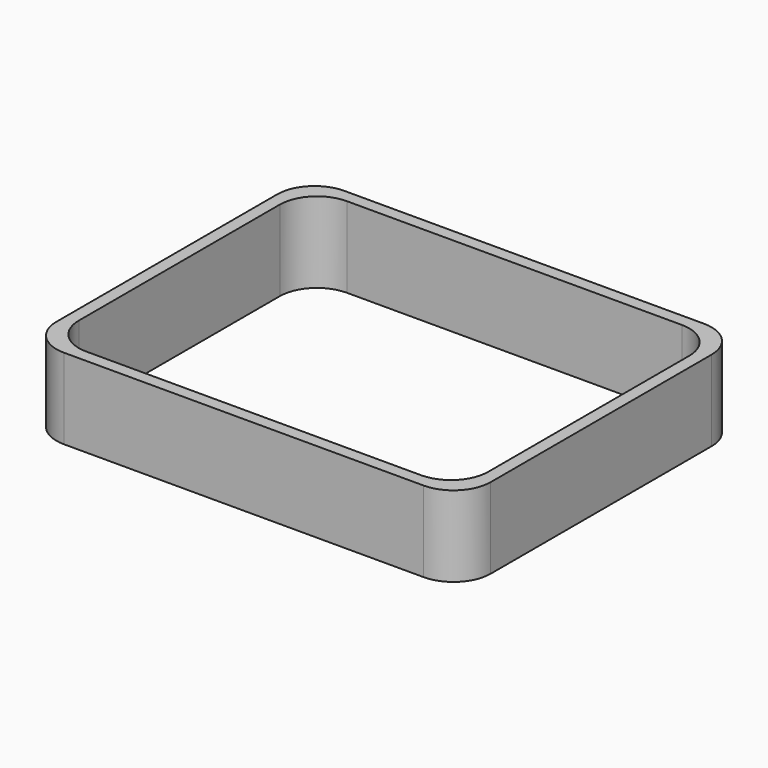
from build123d import *

# Parameters (mm, degrees)
CYLINDER086_R          = 12
CYLINDER086_DEPTH      = 26
BOX065_W               = 12
BOX065_H               = 12
BOX065_DEPTH           = 26
CYLINDER087_R          = 12
CYLINDER087_DEPTH      = 26
BOX066_W               = 12
BOX066_H               = 12
BOX066_DEPTH           = 26
CUT039_PLACEMENT_ANGLE = 90
CYLINDER088_R          = 12
CYLINDER088_DEPTH      = 26
BOX067_W               = 12
BOX067_H               = 12
BOX067_DEPTH           = 26
CUT040_PLACEMENT_ANGLE = 180
CYLINDER089_R          = 12
CYLINDER089_DEPTH      = 26
BOX068_W               = 12
BOX068_H               = 12
BOX068_DEPTH           = 26
CUT041_PLACEMENT_ANGLE = 90
BOX064_W               = 132
BOX064_H               = 105
BOX064_DEPTH           = 26
CYLINDER082_R          = 12
CYLINDER082_DEPTH      = 26
BOX060_W               = 12
BOX060_H               = 12
BOX060_DEPTH           = 26
CYLINDER083_R          = 12
CYLINDER083_DEPTH      = 26
BOX061_W               = 12
BOX061_H               = 12
BOX061_DEPTH           = 26
CUT034_PLACEMENT_ANGLE = 90
CYLINDER084_R          = 12
CYLINDER084_DEPTH      = 26
BOX062_W               = 12
BOX062_H               = 12
BOX062_DEPTH           = 26
CUT035_PLACEMENT_ANGLE = 180
CYLINDER085_R          = 12
CYLINDER085_DEPTH      = 26
BOX063_W               = 12
BOX063_H               = 12
BOX063_DEPTH           = 26
CUT036_PLACEMENT_ANGLE = 90
BOX059_W               = 140
BOX059_H               = 113
BOX059_DEPTH           = 26


with BuildPart() as cylinder088:
    # Cylinder086 → Cylinder086 (new body)
    with BuildSketch(Plane(origin=(12, 12, 0), x_dir=(1, 0, 0), z_dir=(0, 0, 1))):
        Circle(CYLINDER086_R)
    extrude(amount=CYLINDER086_DEPTH)


with BuildPart() as cutout014:
    # Box065 → Box065 (new body)
    with BuildSketch(Plane.XY):
        with Locations((6, 6)):
            Rectangle(BOX065_W, BOX065_H)
    extrude(amount=BOX065_DEPTH)

    # Cut038: cut Cylinder088
    add(cylinder088.part, mode=Mode.SUBTRACT)


with BuildPart() as cutout014_1:
    # Cut038 placement: moved
    add(cutout014.part.moved(Location((4, 4, 0))))


with BuildPart() as cylinder089:
    # Cylinder087 → Cylinder087 (new body)
    with BuildSketch(Plane(origin=(12, 12, 0), x_dir=(1, 0, 0), z_dir=(0, 0, 1))):
        Circle(CYLINDER087_R)
    extrude(amount=CYLINDER087_DEPTH)


with BuildPart() as cutout015:
    # Box066 → Box066 (new body)
    with BuildSketch(Plane.XY):
        with Locations((6, 6)):
            Rectangle(BOX066_W, BOX066_H)
    extrude(amount=BOX066_DEPTH)

    # Cut039: cut Cylinder089
    add(cylinder089.part, mode=Mode.SUBTRACT)


with BuildPart() as cutout015_1:
    # Cut039 placement: moved
    add(cutout015.part.moved(Location((136, 4, 0))).rotate(Axis((136, 4, 0), (0, 0, 1)), CUT039_PLACEMENT_ANGLE))


with BuildPart() as cylinder090:
    # Cylinder088 → Cylinder088 (new body)
    with BuildSketch(Plane(origin=(12, 12, 0), x_dir=(1, 0, 0), z_dir=(0, 0, 1))):
        Circle(CYLINDER088_R)
    extrude(amount=CYLINDER088_DEPTH)


with BuildPart() as cutout016:
    # Box067 → Box067 (new body)
    with BuildSketch(Plane.XY):
        with Locations((6, 6)):
            Rectangle(BOX067_W, BOX067_H)
    extrude(amount=BOX067_DEPTH)

    # Cut040: cut Cylinder090
    add(cylinder090.part, mode=Mode.SUBTRACT)


with BuildPart() as cutout016_1:
    # Cut040 placement: moved
    add(cutout016.part.moved(Location((136, 109, 0))).rotate(Axis((136, 109, 0), (0, 0, 1)), CUT040_PLACEMENT_ANGLE))


with BuildPart() as cylinder091:
    # Cylinder089 → Cylinder089 (new body)
    with BuildSketch(Plane(origin=(12, 12, 0), x_dir=(1, 0, 0), z_dir=(0, 0, 1))):
        Circle(CYLINDER089_R)
    extrude(amount=CYLINDER089_DEPTH)


with BuildPart() as cuts003:
    # Box068 → Box068 (new body)
    with BuildSketch(Plane.XY):
        with Locations((6, 6)):
            Rectangle(BOX068_W, BOX068_H)
    extrude(amount=BOX068_DEPTH)

    # Cut041: cut Cylinder091
    add(cylinder091.part, mode=Mode.SUBTRACT)


with BuildPart() as cuts003_1:
    # Cut041 placement: moved
    add(cuts003.part.moved(Location((4, 109, 0))).rotate(Axis((4, 109, 0), (0, 0, -1)), CUT041_PLACEMENT_ANGLE))

    # Fusion043: union cutOut014, cutOut015, cutOut016
    add(cutout014_1.part)
    add(cutout015_1.part)
    add(cutout016_1.part)


with BuildPart() as wallcut:
    # Box064 → Box064 (new body)
    with BuildSketch(Plane(origin=(4, 4, 0), x_dir=(1, 0, 0), z_dir=(0, 0, 1))):
        with Locations((66, 52.5)):
            Rectangle(BOX064_W, BOX064_H)
    extrude(amount=BOX064_DEPTH)

    # Cut042: cut cuts003
    add(cuts003_1.part, mode=Mode.SUBTRACT)


with BuildPart() as cylinder084:
    # Cylinder082 → Cylinder082 (new body)
    with BuildSketch(Plane(origin=(12, 12, 0), x_dir=(1, 0, 0), z_dir=(0, 0, 1))):
        Circle(CYLINDER082_R)
    extrude(amount=CYLINDER082_DEPTH)


with BuildPart() as cutout010:
    # Box060 → Box060 (new body)
    with BuildSketch(Plane.XY):
        with Locations((6, 6)):
            Rectangle(BOX060_W, BOX060_H)
    extrude(amount=BOX060_DEPTH)

    # Cut033: cut Cylinder084
    add(cylinder084.part, mode=Mode.SUBTRACT)


with BuildPart() as cylinder085:
    # Cylinder083 → Cylinder083 (new body)
    with BuildSketch(Plane(origin=(12, 12, 0), x_dir=(1, 0, 0), z_dir=(0, 0, 1))):
        Circle(CYLINDER083_R)
    extrude(amount=CYLINDER083_DEPTH)


with BuildPart() as cutout011:
    # Box061 → Box061 (new body)
    with BuildSketch(Plane.XY):
        with Locations((6, 6)):
            Rectangle(BOX061_W, BOX061_H)
    extrude(amount=BOX061_DEPTH)

    # Cut034: cut Cylinder085
    add(cylinder085.part, mode=Mode.SUBTRACT)


with BuildPart() as cutout011_1:
    # Cut034 placement: moved
    add(cutout011.part.moved(Location((140, 0, 0))).rotate(Axis((140, 0, 0), (0, 0, 1)), CUT034_PLACEMENT_ANGLE))


with BuildPart() as cylinder086:
    # Cylinder084 → Cylinder084 (new body)
    with BuildSketch(Plane(origin=(12, 12, 0), x_dir=(1, 0, 0), z_dir=(0, 0, 1))):
        Circle(CYLINDER084_R)
    extrude(amount=CYLINDER084_DEPTH)


with BuildPart() as cutout012:
    # Box062 → Box062 (new body)
    with BuildSketch(Plane.XY):
        with Locations((6, 6)):
            Rectangle(BOX062_W, BOX062_H)
    extrude(amount=BOX062_DEPTH)

    # Cut035: cut Cylinder086
    add(cylinder086.part, mode=Mode.SUBTRACT)


with BuildPart() as cutout012_1:
    # Cut035 placement: moved
    add(cutout012.part.moved(Location((140, 113, 0))).rotate(Axis((140, 113, 0), (0, 0, 1)), CUT035_PLACEMENT_ANGLE))


with BuildPart() as cylinder087:
    # Cylinder085 → Cylinder085 (new body)
    with BuildSketch(Plane(origin=(12, 12, 0), x_dir=(1, 0, 0), z_dir=(0, 0, 1))):
        Circle(CYLINDER085_R)
    extrude(amount=CYLINDER085_DEPTH)


with BuildPart() as cuts002:
    # Box063 → Box063 (new body)
    with BuildSketch(Plane.XY):
        with Locations((6, 6)):
            Rectangle(BOX063_W, BOX063_H)
    extrude(amount=BOX063_DEPTH)

    # Cut036: cut Cylinder087
    add(cylinder087.part, mode=Mode.SUBTRACT)


with BuildPart() as cuts002_1:
    # Cut036 placement: moved
    add(cuts002.part.moved(Location((0, 113, 0))).rotate(Axis((0, 113, 0), (0, 0, -1)), CUT036_PLACEMENT_ANGLE))

    # Fusion042: union cutOut010, cutOut011, cutOut012
    add(cutout010.part)
    add(cutout011_1.part)
    add(cutout012_1.part)


with BuildPart() as wall001:
    # Box059 → Box059 (new body)
    with BuildSketch(Plane.XY):
        with Locations((70, 56.5)):
            Rectangle(BOX059_W, BOX059_H)
    extrude(amount=BOX059_DEPTH)

    # Cut037: cut cuts002
    add(cuts002_1.part, mode=Mode.SUBTRACT)

    # Cut043: cut wallCut
    add(wallcut.part, mode=Mode.SUBTRACT)


solid = wall001.part
